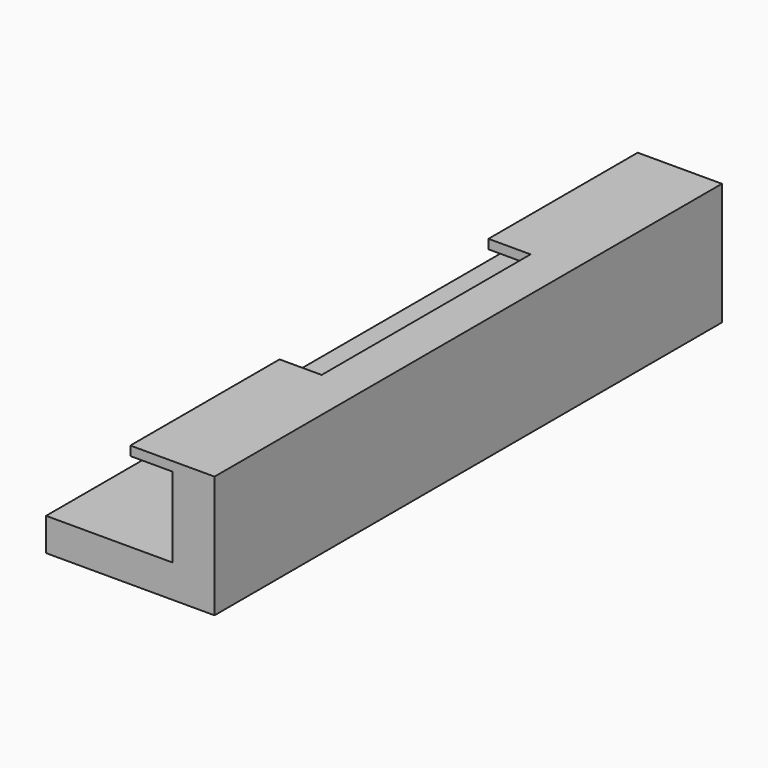
from build123d import *

# Parameters (mm, degrees)
F1_DEPTH  = 25
F3_W      = 44.3
F3_H      = 19
F4_DEPTH  = 20
F5_W      = 10
F5_H      = 44.3
F6_DEPTH  = 25
F7_W      = 44.3
F7_H      = 19
F8_DEPTH  = 20
F9_W      = 10
F9_H      = 44.3
F10_DEPTH = 25
F11_W     = 44.3
F11_H     = 3.8
F12_DEPTH = 20
F13_W     = 44.3
F13_H     = 3.8
F14_DEPTH = 20
F16_DEPTH = 63
F2_W      = 40
F2_H      = 150.6
F17_DEPTH = 4
F19_DEPTH = 6.2
F20_W     = 6.3
F20_H     = 2.2
F21_DEPTH = 25


with BuildPart() as f1:
    # F0 (on Top) → F1 (new body)
    with BuildSketch(Plane.XY):
        Polygon((40.029135, -69.956624), (40.029135, 80.643376), (20.029135, 80.643376), (10.029135, 80.643376), (10.029135, 36.343376), (30.029135, 36.343376), (30.029135, -25.656624), (10.029135, -25.656624), (10.029135, -69.956624), (20.029135, -69.956624), align=None)
    extrude(amount=F1_DEPTH)

    # F3 (on face) → F4 (cut)
    with BuildSketch(Plane(origin=(10.029135, 0, 0), x_dir=(0, -1, 0), z_dir=(-1, 0, 0))):
        with Locations((-58.493376, 13.3)):
            Rectangle(F3_W, F3_H)
    extrude(amount=-F4_DEPTH, mode=Mode.SUBTRACT)

    # F5 (on face) → F6 (cut)
    with BuildSketch(Plane.XY.offset(25)):
        with Locations((15.029135, 58.493376)):
            Rectangle(F5_W, F5_H)
    extrude(amount=-F6_DEPTH, mode=Mode.SUBTRACT)

    # F7 (on face) → F8 (cut)
    with BuildSketch(Plane(origin=(10.029135, 0, 0), x_dir=(0, -1, 0), z_dir=(-1, 0, 0))):
        with Locations((47.806624, 13.3)):
            Rectangle(F7_W, F7_H)
    extrude(amount=-F8_DEPTH, mode=Mode.SUBTRACT)

    # F9 (on face) → F10 (cut)
    with BuildSketch(Plane.XY.offset(25)):
        with Locations((15.029135, -47.806624)):
            Rectangle(F9_W, F9_H)
    extrude(amount=-F10_DEPTH, mode=Mode.SUBTRACT)

    # F11 (on face) → F12 (join)
    with BuildSketch(Plane(origin=(20.029135, 0, 0), x_dir=(0, -1, 0), z_dir=(-1, 0, 0))):
        with Locations((-58.493376, 1.9)):
            Rectangle(F11_W, F11_H)
    extrude(amount=F12_DEPTH)

    # F13 (on face) → F14 (join)
    with BuildSketch(Plane(origin=(20.029135, 0, 0), x_dir=(0, -1, 0), z_dir=(-1, 0, 0))):
        with Locations((47.806624, 1.9)):
            Rectangle(F13_W, F13_H)
    extrude(amount=F14_DEPTH)

    # F15 (on face) → F16 (join)
    with BuildSketch(Plane(origin=(0, -25.656624, 0), x_dir=(-1, 0, 0), z_dir=(0, 1, 0))):
        Polygon((-0.029135, 3.8), (-30.029135, 3.8), (-30.029135, 0), (0, 0), align=None)
    extrude(amount=F16_DEPTH)

    # F2 (on face) → F17 (join)
    with BuildSketch(Plane(origin=(0, 0, 0), x_dir=(1, 0, 0), z_dir=(0, 0, -1))):
        with Locations((20.029135, -5.343376)):
            Rectangle(F2_W, F2_H)
    extrude(amount=F17_DEPTH)

    # F18 (on face) → F19 (cut)
    with BuildSketch(Plane(origin=(0, 0, -4), x_dir=(1, 0, 0), z_dir=(0, 0, -1))):
        Polygon((0.029135, -2.193376), (0.029135, -8.493376), (17.059135, -8.493376), (17.059135, -11.343376), (22.059135, -11.343376), (22.059135, 0.656624), (17.059135, 0.656624), (17.059135, -2.193376), align=None)
    extrude(amount=-F19_DEPTH, mode=Mode.SUBTRACT)

    # F20 (on face) → F21 (cut)
    with BuildSketch(Plane.YZ.offset(0.029135)):
        with Locations((5.343376, 1.1)):
            Rectangle(F20_W, F20_H)
    extrude(amount=-F21_DEPTH, mode=Mode.SUBTRACT)


solid = f1.part
